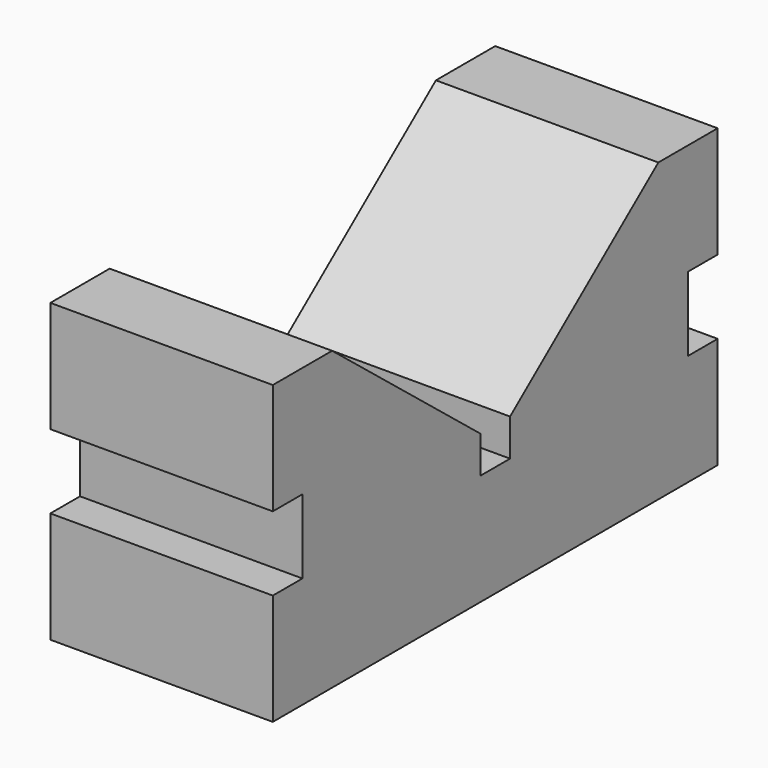
from build123d import *

# Parameters (mm, degrees)
F0_W     = 30
F0_H     = 75
F1_DEPTH = 40
F2_W     = 5
F2_H     = 10
F3_DEPTH = 30.001


with BuildPart() as f1:
    # F0 (on Top) → F1 (new body)
    with BuildSketch(Plane.XY):
        Rectangle(F0_W, F0_H)
    extrude(amount=F1_DEPTH)

    # F2 (on face) → F3 (cut, through all)
    with BuildSketch(Plane.YZ.offset(15)):
        with Locations((-35, 20)):
            Rectangle(F2_W, F2_H)
        with Locations((35, 20)):
            Rectangle(F2_W, F2_H)
        Polygon((-2.5, 20), (-2.5, 15), (2.5, 15), (2.5, 20), (27.5, 40), (-27.5, 40), align=None)
    extrude(amount=-F3_DEPTH, mode=Mode.SUBTRACT)


solid = f1.part
